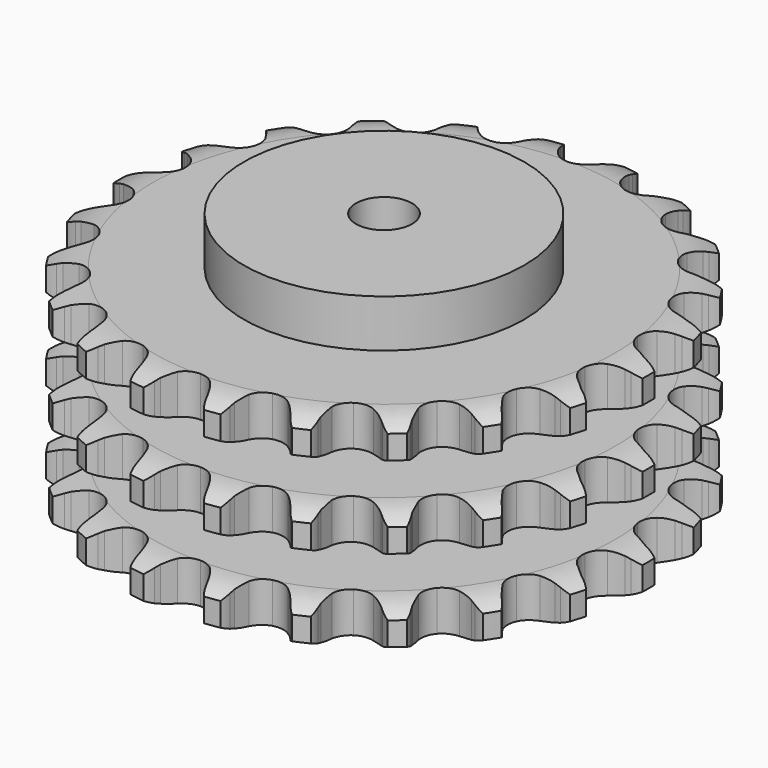
from build123d import *

# Parameters (mm, degrees)
PAD_DEPTH         = 146
SKETCH001_R       = 100
PAD001_DEPTH      = 180
SKETCH002_R       = 20
POCKET_DEPTH      = 0.001
POCKET_DEPTH_BACK = 180.001


with BuildPart() as part:
    # Sprocket → Pad (new body)
    with BuildSketch(Plane.XY):
        with BuildLine():
            ThreePointArc((-27.768956, 193.137329), (-22.075278, 188.222969), (-18.173572, 181.792914))
            Line((-18.173572, 181.792914), (-16.76017, 178.342005))
            ThreePointArc((-16.76017, 178.342005), (-14.499312, 173.734425), (-11.639459, 169.472675))
            ThreePointArc((-11.639459, 169.472675), (-6.482586, 165.26615), (0, 163.761399))
            ThreePointArc((0, 163.761399), (6.482586, 165.26615), (11.639459, 169.472675))
            ThreePointArc((11.639459, 169.472675), (14.499312, 173.734425), (16.76017, 178.342005))
            Line((16.76017, 178.342005), (18.173572, 181.792914))
            ThreePointArc((18.173572, 181.792914), (22.075278, 188.222969), (27.768956, 193.137329))
            ThreePointArc((27.768956, 193.137329), (31.847464, 186.81794), (33.779568, 179.549111))
            Line((33.779568, 179.549111), (34.163484, 175.839787))
            ThreePointArc((34.163484, 175.839787), (35.034655, 170.781888), (36.57799, 165.887055))
            ThreePointArc((36.57799, 165.887055), (40.340859, 160.398065), (46.136918, 157.127912))
            ThreePointArc((46.136918, 157.127912), (52.780851, 156.745354), (58.913949, 159.328626))
            Line((58.913949, 159.328626), (66.326015, 166.396016))
            ThreePointArc((66.326015, 166.396016), (67.454531, 167.880992), (68.654398, 169.308937))
            ThreePointArc((68.654398, 169.308937), (74.209612, 174.379291), (81.057191, 177.490491))
            ThreePointArc((81.057191, 177.490491), (83.190114, 170.278034), (82.996088, 162.759306))
            Line((82.996088, 162.759306), (82.319415, 159.092074))
            ThreePointArc((82.319415, 159.092074), (81.730324, 153.993619), (81.832109, 148.862253))
            ThreePointArc((81.832109, 148.862253), (83.896128, 142.535483), (88.536097, 137.764856))
            ThreePointArc((88.536097, 137.764856), (94.803125, 135.525982), (101.415582, 136.276719))
            Line((101.415582, 136.276719), (110.51852, 140.96961))
            ThreePointArc((110.51852, 140.96961), (112.01969, 142.076495), (113.573252, 143.108556))
            ThreePointArc((113.573252, 143.108556), (120.331925, 146.408441), (127.778656, 147.46443))
            ThreePointArc((127.778656, 147.46443), (127.793196, 139.943213), (125.488759, 132.783711))
            Line((125.488759, 132.783711), (123.806317, 129.455668))
            ThreePointArc((123.806317, 129.455668), (121.804687, 124.729702), (120.456677, 119.777517))
            ThreePointArc((120.456677, 119.777517), (120.654631, 113.125524), (123.762608, 107.24091))
            ThreePointArc((123.762608, 107.24091), (129.145013, 103.327101), (135.701127, 102.184483))
            Line((135.701127, 102.184483), (145.757472, 104.122685))
            ThreePointArc((145.757472, 104.122685), (147.509679, 104.761805), (149.291077, 105.314372))
            ThreePointArc((149.291077, 105.314372), (156.705661, 106.576449), (164.148253, 105.491677))
            ThreePointArc((164.148253, 105.491677), (162.043233, 98.271026), (157.815077, 92.050769))
            Line((157.815077, 92.050769), (155.263168, 89.331533))
            ThreePointArc((155.263168, 89.331533), (152.01116, 85.360927), (149.322561, 80.989118))
            ThreePointArc((149.322561, 80.989118), (147.638414, 74.550807), (148.962608, 68.028944))
            ThreePointArc((148.962608, 68.028944), (153.024341, 62.757272), (158.992973, 59.813869))
            Line((158.992973, 59.813869), (169.188021, 58.84036))
            ThreePointArc((169.188021, 58.84036), (171.049312, 58.959937), (172.914226, 58.988243))
            ThreePointArc((172.914226, 58.988243), (180.384036, 58.110268), (187.219535, 54.972616))
            ThreePointArc((187.219535, 54.972616), (183.165491, 48.637505), (177.356156, 43.860421))
            Line((177.356156, 43.860421), (174.14152, 41.970289))
            ThreePointArc((174.14152, 41.970289), (169.902592, 39.076717), (166.091219, 35.639463))
            ThreePointArc((166.091219, 35.639463), (162.661411, 29.936428), (162.094544, 23.305677))
            ThreePointArc((162.094544, 23.305677), (164.506547, 17.103223), (169.404155, 12.59749))
            Line((169.404155, 12.59749), (178.911962, 8.791138))
            ThreePointArc((178.911962, 8.791138), (180.731547, 8.381485), (182.528894, 7.883238))
            ThreePointArc((182.528894, 7.883238), (189.44877, 4.936338), (195.123404, 0))
            ThreePointArc((195.123404, 0), (189.44877, -4.936338), (182.528894, -7.883238))
            Line((182.528894, -7.883238), (178.911962, -8.791138))
            ThreePointArc((178.911962, -8.791138), (174.029526, -10.373256), (169.404155, -12.59749))
            ThreePointArc((169.404155, -12.59749), (164.506547, -17.103223), (162.094544, -23.305677))
            ThreePointArc((162.094544, -23.305677), (162.661411, -29.936428), (166.091219, -35.639463))
            Line((166.091219, -35.639463), (174.14152, -41.970289))
            ThreePointArc((174.14152, -41.970289), (175.771987, -42.875985), (177.356156, -43.860421))
            ThreePointArc((177.356156, -43.860421), (183.165491, -48.637505), (187.219535, -54.972616))
            ThreePointArc((187.219535, -54.972616), (180.384036, -58.110268), (172.914226, -58.988243))
            Line((172.914226, -58.988243), (169.188021, -58.84036))
            ThreePointArc((169.188021, -58.84036), (164.057624, -58.98285), (158.992973, -59.813869))
            ThreePointArc((158.992973, -59.813869), (153.024341, -62.757272), (148.962608, -68.028944))
            ThreePointArc((148.962608, -68.028944), (147.638414, -74.550807), (149.322561, -80.989118))
            Line((149.322561, -80.989118), (155.263168, -89.331533))
            ThreePointArc((155.263168, -89.331533), (156.572425, -90.659897), (157.815077, -92.050769))
            ThreePointArc((157.815077, -92.050769), (162.043233, -98.271026), (164.148253, -105.491677))
            ThreePointArc((164.148253, -105.491677), (156.705661, -106.576449), (149.291077, -105.314372))
            Line((149.291077, -105.314372), (145.757472, -104.122685))
            ThreePointArc((145.757472, -104.122685), (140.794748, -102.814004), (135.701127, -102.184483))
            ThreePointArc((135.701127, -102.184483), (129.145013, -103.327101), (123.762608, -107.24091))
            ThreePointArc((123.762608, -107.24091), (120.654631, -113.125524), (120.456677, -119.777517))
            Line((120.456677, -119.777517), (123.806317, -129.455668))
            ThreePointArc((123.806317, -129.455668), (124.688297, -131.099084), (125.488759, -132.783711))
            ThreePointArc((125.488759, -132.783711), (127.793196, -139.943213), (127.778656, -147.46443))
            ThreePointArc((127.778656, -147.46443), (120.331925, -146.408441), (113.573252, -143.108556))
            Line((113.573252, -143.108556), (110.51852, -140.96961))
            ThreePointArc((110.51852, -140.96961), (106.125519, -138.315779), (101.415582, -136.276719))
            ThreePointArc((101.415582, -136.276719), (94.803125, -135.525982), (88.536097, -137.764856))
            ThreePointArc((88.536097, -137.764856), (83.896128, -142.535483), (81.832109, -148.862253))
            Line((81.832109, -148.862253), (82.319415, -159.092074))
            ThreePointArc((82.319415, -159.092074), (82.702665, -160.917403), (82.996088, -162.759306))
            ThreePointArc((82.996088, -162.759306), (83.190114, -170.278034), (81.057191, -177.490491))
            ThreePointArc((81.057191, -177.490491), (74.209612, -174.379291), (68.654398, -169.308937))
            Line((68.654398, -169.308937), (66.326015, -166.396016))
            ThreePointArc((66.326015, -166.396016), (62.858632, -162.612032), (58.913949, -159.328626))
            ThreePointArc((58.913949, -159.328626), (52.780851, -156.745354), (46.136918, -157.127912))
            ThreePointArc((46.136918, -157.127912), (40.340859, -160.398065), (36.57799, -165.887055))
            Line((36.57799, -165.887055), (34.163484, -175.839787))
            ThreePointArc((34.163484, -175.839787), (34.016954, -177.699151), (33.779568, -179.549111))
            ThreePointArc((33.779568, -179.549111), (31.847464, -186.81794), (27.768956, -193.137329))
            ThreePointArc((27.768956, -193.137329), (22.075278, -188.222969), (18.173572, -181.792914))
            Line((18.173572, -181.792914), (16.76017, -178.342005))
            ThreePointArc((16.76017, -178.342005), (14.499312, -173.734425), (11.639459, -169.472675))
            ThreePointArc((11.639459, -169.472675), (6.482586, -165.26615), (0, -163.761399))
            ThreePointArc((0, -163.761399), (-6.482586, -165.26615), (-11.639459, -169.472675))
            Line((-11.639459, -169.472675), (-16.76017, -178.342005))
            ThreePointArc((-16.76017, -178.342005), (-17.424607, -180.08477), (-18.173572, -181.792914))
            ThreePointArc((-18.173572, -181.792914), (-22.075278, -188.222969), (-27.768956, -193.137329))
            ThreePointArc((-27.768956, -193.137329), (-31.847464, -186.81794), (-33.779568, -179.549111))
            Line((-33.779568, -179.549111), (-34.163484, -175.839787))
            ThreePointArc((-34.163484, -175.839787), (-35.034655, -170.781888), (-36.57799, -165.887055))
            ThreePointArc((-36.57799, -165.887055), (-40.340859, -160.398065), (-46.136918, -157.127912))
            ThreePointArc((-46.136918, -157.127912), (-52.780851, -156.745354), (-58.913949, -159.328626))
            Line((-58.913949, -159.328626), (-66.326015, -166.396016))
            ThreePointArc((-66.326015, -166.396016), (-67.454531, -167.880992), (-68.654398, -169.308937))
            ThreePointArc((-68.654398, -169.308937), (-74.209612, -174.379291), (-81.057191, -177.490491))
            ThreePointArc((-81.057191, -177.490491), (-83.190114, -170.278034), (-82.996088, -162.759306))
            Line((-82.996088, -162.759306), (-82.319415, -159.092074))
            ThreePointArc((-82.319415, -159.092074), (-81.730324, -153.993619), (-81.832109, -148.862253))
            ThreePointArc((-81.832109, -148.862253), (-83.896128, -142.535483), (-88.536097, -137.764856))
            ThreePointArc((-88.536097, -137.764856), (-94.803125, -135.525982), (-101.415582, -136.276719))
            Line((-101.415582, -136.276719), (-110.51852, -140.96961))
            ThreePointArc((-110.51852, -140.96961), (-112.01969, -142.076495), (-113.573252, -143.108556))
            ThreePointArc((-113.573252, -143.108556), (-120.331925, -146.408441), (-127.778656, -147.46443))
            ThreePointArc((-127.778656, -147.46443), (-127.793196, -139.943213), (-125.488759, -132.783711))
            Line((-125.488759, -132.783711), (-123.806317, -129.455668))
            ThreePointArc((-123.806317, -129.455668), (-121.804687, -124.729702), (-120.456677, -119.777517))
            ThreePointArc((-120.456677, -119.777517), (-120.654631, -113.125524), (-123.762608, -107.24091))
            ThreePointArc((-123.762608, -107.24091), (-129.145013, -103.327101), (-135.701127, -102.184483))
            Line((-135.701127, -102.184483), (-145.757472, -104.122685))
            ThreePointArc((-145.757472, -104.122685), (-147.509679, -104.761805), (-149.291077, -105.314372))
            ThreePointArc((-149.291077, -105.314372), (-156.705661, -106.576449), (-164.148253, -105.491677))
            ThreePointArc((-164.148253, -105.491677), (-162.043233, -98.271026), (-157.815077, -92.050769))
            Line((-157.815077, -92.050769), (-155.263168, -89.331533))
            ThreePointArc((-155.263168, -89.331533), (-152.01116, -85.360927), (-149.322561, -80.989118))
            ThreePointArc((-149.322561, -80.989118), (-147.638414, -74.550807), (-148.962608, -68.028944))
            ThreePointArc((-148.962608, -68.028944), (-153.024341, -62.757272), (-158.992973, -59.813869))
            Line((-158.992973, -59.813869), (-169.188021, -58.84036))
            ThreePointArc((-169.188021, -58.84036), (-171.049312, -58.959937), (-172.914226, -58.988243))
            ThreePointArc((-172.914226, -58.988243), (-180.384036, -58.110268), (-187.219535, -54.972616))
            ThreePointArc((-187.219535, -54.972616), (-183.165491, -48.637505), (-177.356156, -43.860421))
            Line((-177.356156, -43.860421), (-174.14152, -41.970289))
            ThreePointArc((-174.14152, -41.970289), (-169.902592, -39.076717), (-166.091219, -35.639463))
            ThreePointArc((-166.091219, -35.639463), (-162.661411, -29.936428), (-162.094544, -23.305677))
            ThreePointArc((-162.094544, -23.305677), (-164.506547, -17.103223), (-169.404155, -12.59749))
            Line((-169.404155, -12.59749), (-178.911962, -8.791138))
            ThreePointArc((-178.911962, -8.791138), (-180.731547, -8.381485), (-182.528894, -7.883238))
            ThreePointArc((-182.528894, -7.883238), (-189.44877, -4.936338), (-195.123404, 0))
            ThreePointArc((-195.123404, 0), (-189.44877, 4.936338), (-182.528894, 7.883238))
            Line((-182.528894, 7.883238), (-178.911962, 8.791138))
            ThreePointArc((-178.911962, 8.791138), (-174.029526, 10.373256), (-169.404155, 12.59749))
            ThreePointArc((-169.404155, 12.59749), (-164.506547, 17.103223), (-162.094544, 23.305677))
            ThreePointArc((-162.094544, 23.305677), (-162.661411, 29.936428), (-166.091219, 35.639463))
            Line((-166.091219, 35.639463), (-174.14152, 41.970289))
            ThreePointArc((-174.14152, 41.970289), (-175.771987, 42.875985), (-177.356156, 43.860421))
            ThreePointArc((-177.356156, 43.860421), (-183.165491, 48.637505), (-187.219535, 54.972616))
            ThreePointArc((-187.219535, 54.972616), (-180.384036, 58.110268), (-172.914226, 58.988243))
            Line((-172.914226, 58.988243), (-169.188021, 58.84036))
            ThreePointArc((-169.188021, 58.84036), (-164.057624, 58.98285), (-158.992973, 59.813869))
            ThreePointArc((-158.992973, 59.813869), (-153.024341, 62.757272), (-148.962608, 68.028944))
            ThreePointArc((-148.962608, 68.028944), (-147.638414, 74.550807), (-149.322561, 80.989118))
            Line((-149.322561, 80.989118), (-155.263168, 89.331533))
            ThreePointArc((-155.263168, 89.331533), (-156.572425, 90.659897), (-157.815077, 92.050769))
            ThreePointArc((-157.815077, 92.050769), (-162.043233, 98.271026), (-164.148253, 105.491677))
            ThreePointArc((-164.148253, 105.491677), (-156.705661, 106.576449), (-149.291077, 105.314372))
            Line((-149.291077, 105.314372), (-145.757472, 104.122685))
            ThreePointArc((-145.757472, 104.122685), (-140.794748, 102.814004), (-135.701127, 102.184483))
            ThreePointArc((-135.701127, 102.184483), (-129.145013, 103.327101), (-123.762608, 107.24091))
            ThreePointArc((-123.762608, 107.24091), (-120.654631, 113.125524), (-120.456677, 119.777517))
            Line((-120.456677, 119.777517), (-123.806317, 129.455668))
            ThreePointArc((-123.806317, 129.455668), (-124.688297, 131.099084), (-125.488759, 132.783711))
            ThreePointArc((-125.488759, 132.783711), (-127.793196, 139.943213), (-127.778656, 147.46443))
            ThreePointArc((-127.778656, 147.46443), (-120.331925, 146.408441), (-113.573252, 143.108556))
            Line((-113.573252, 143.108556), (-110.51852, 140.96961))
            ThreePointArc((-110.51852, 140.96961), (-106.125519, 138.315779), (-101.415582, 136.276719))
            ThreePointArc((-101.415582, 136.276719), (-94.803125, 135.525982), (-88.536097, 137.764856))
            ThreePointArc((-88.536097, 137.764856), (-83.896128, 142.535483), (-81.832109, 148.862253))
            Line((-81.832109, 148.862253), (-82.319415, 159.092074))
            ThreePointArc((-82.319415, 159.092074), (-82.702665, 160.917403), (-82.996088, 162.759306))
            ThreePointArc((-82.996088, 162.759306), (-83.190114, 170.278034), (-81.057191, 177.490491))
            ThreePointArc((-81.057191, 177.490491), (-74.209612, 174.379291), (-68.654398, 169.308937))
            Line((-68.654398, 169.308937), (-66.326015, 166.396016))
            ThreePointArc((-66.326015, 166.396016), (-62.858632, 162.612032), (-58.913949, 159.328626))
            ThreePointArc((-58.913949, 159.328626), (-52.780851, 156.745354), (-46.136918, 157.127912))
            ThreePointArc((-46.136918, 157.127912), (-40.340859, 160.398065), (-36.57799, 165.887055))
            Line((-36.57799, 165.887055), (-34.163484, 175.839787))
            ThreePointArc((-34.163484, 175.839787), (-34.016954, 177.699151), (-33.779568, 179.549111))
            ThreePointArc((-33.779568, 179.549111), (-31.847464, 186.81794), (-27.768956, 193.137329))
        make_face()
    extrude(amount=PAD_DEPTH)

    # Sketch → Groove (revolve, cut)
    with BuildSketch(Plane.XZ):
        with BuildLine():
            ThreePointArc((164.75, 0), (177.119317, 1.522732), (188.75, 6))
            Line((188.75, 6), (188.75, 22.8))
            ThreePointArc((188.75, 22.8), (177.119317, 27.277268), (164.75, 28.8))
            Line((100, 28.8), (164.75, 28.8))
            Line((100, 28.8), (100, 58.6))
            Line((100, 58.6), (164.75, 58.6))
            ThreePointArc((164.75, 58.6), (177.119317, 60.122732), (188.75, 64.6))
            Line((188.75, 81.4), (188.75, 64.6))
            ThreePointArc((188.75, 81.4), (177.119317, 85.877268), (164.75, 87.4))
            Line((100, 87.4), (164.75, 87.4))
            Line((100, 117.2), (100, 87.4))
            Line((164.75, 117.2), (100, 117.2))
            ThreePointArc((164.75, 117.2), (177.119317, 118.722732), (188.75, 123.2))
            Line((188.75, 123.2), (188.75, 140))
            ThreePointArc((188.75, 140), (177.119317, 144.477268), (164.75, 146))
            Line((164.75, 146), (198.75, 146))
            Line((198.75, 146), (198.75, 0))
            Line((164.75, 0), (198.75, 0))
        make_face()
    revolve(axis=Axis((0, 0, 0), (0, 0, 1)), mode=Mode.SUBTRACT)

    # Sketch001 → Pad001 (join)
    with BuildSketch(Plane.XY):
        Circle(SKETCH001_R)
    extrude(amount=PAD001_DEPTH)

    # Sketch002 → Pocket (cut, two sides)
    with BuildSketch(Plane.XY) as pocket_sk:
        Circle(SKETCH002_R)
    extrude(amount=-POCKET_DEPTH, mode=Mode.SUBTRACT)
    extrude(pocket_sk.sketch, amount=POCKET_DEPTH_BACK, mode=Mode.SUBTRACT)


solid = part.part
